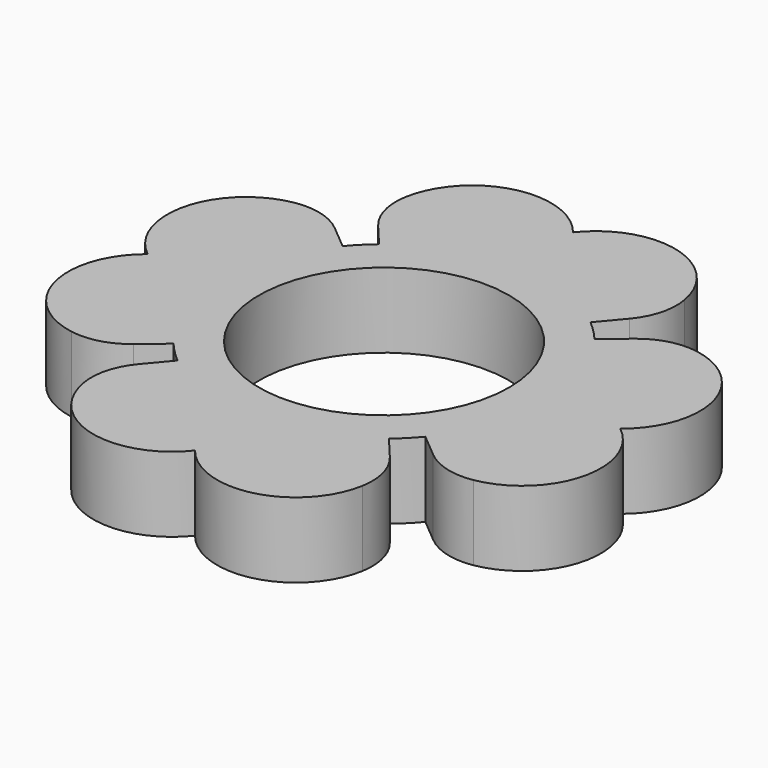
from build123d import *

# Parameters (mm, degrees)
F0_R     = 15.875
F1_DEPTH = 9.525
F2_R     = 8


with BuildPart() as f1:
    # F0 (on Top) → F1 (new body)
    with BuildSketch(Plane.XY):
        with BuildLine():
            ThreePointArc((-15.991178, -13.418191), (-20.875, 0), (-15.991178, 13.418191))
            Line((-15.991178, 13.418191), (-20.6832, 17.355265))
            ThreePointArc((-20.6832, 17.355265), (-32.626759, 12.588513), (-30, 0))
            ThreePointArc((-30, 0), (-32.626759, -12.588513), (-20.6832, -17.355265))
            Line((-20.6832, -17.355265), (-15.991178, -13.418191))
        make_face()
        with BuildLine():
            Line((-17.355265, 20.6832), (-13.418191, 15.991178))
            ThreePointArc((-13.418191, 15.991178), (-14.760854, 14.760854), (-15.991178, 13.418191))
            ThreePointArc((-15.991178, 13.418191), (-20.875, 0), (-15.991178, -13.418191))
            ThreePointArc((-15.991178, -13.418191), (-14.760854, -14.760854), (-13.418191, -15.991178))
            Line((-13.418191, -15.991178), (-17.355265, -20.6832))
            ThreePointArc((-17.355265, -20.6832), (-12.588513, -32.626759), (0, -30))
            ThreePointArc((0, -30), (12.588513, -32.626759), (17.355265, -20.6832))
            Line((17.355265, -20.6832), (13.418191, -15.991178))
            ThreePointArc((13.418191, -15.991178), (14.760854, -14.760854), (15.991178, -13.418191))
            Line((15.991178, -13.418191), (20.6832, -17.355265))
            ThreePointArc((20.6832, -17.355265), (32.626759, -12.588513), (30, 0))
            ThreePointArc((30, 0), (32.626759, 12.588513), (20.6832, 17.355265))
            Line((20.6832, 17.355265), (15.991178, 13.418191))
            ThreePointArc((15.991178, 13.418191), (14.760854, 14.760854), (13.418191, 15.991178))
            Line((13.418191, 15.991178), (17.355265, 20.6832))
            ThreePointArc((17.355265, 20.6832), (12.588513, 32.626759), (0, 30))
            ThreePointArc((0, 30), (-12.588513, 32.626759), (-17.355265, 20.6832))
        make_face()
        Circle(F0_R, mode=Mode.SUBTRACT)
    extrude(amount=F1_DEPTH)

    # F2
    f2_edges = [f1.edges().sort_by_distance(p)[0] for p in [
        (-20.6832, -17.355265, 4.7625),
        (20.6832, -17.355265, 4.7625),
        (17.355265, 20.6832, 4.7625),
        (20.6832, 17.355265, 4.7625),
        (-17.355265, -20.6832, 4.7625),
        (-20.6832, 17.355265, 4.7625),
        (-17.355265, 20.6832, 4.7625),
        (17.355265, -20.6832, 4.7625),
    ]]
    fillet(f2_edges, radius=F2_R)


solid = f1.part
